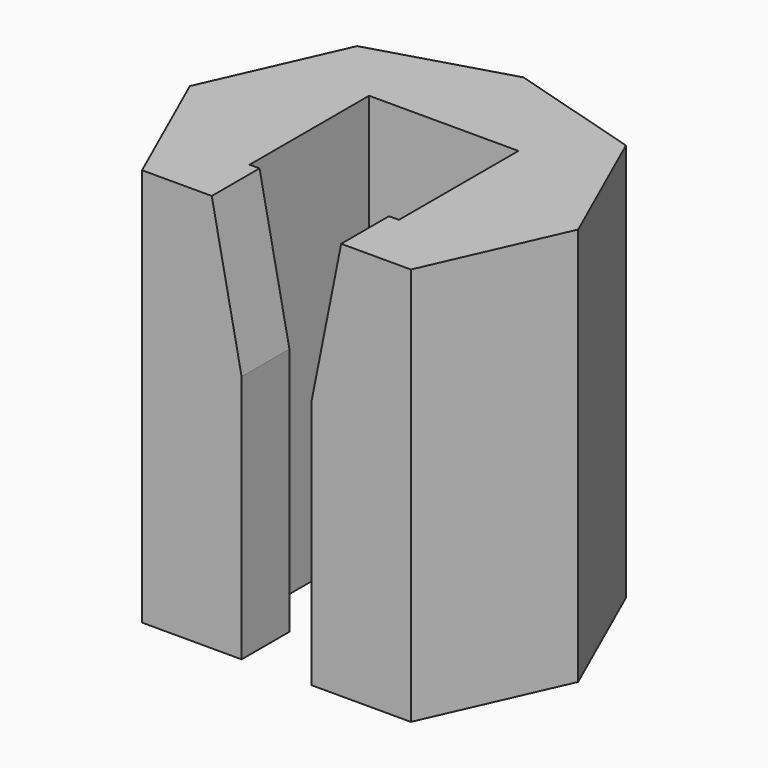
from build123d import *

# Parameters (mm, degrees)
F1_DEPTH = 40
F3_DEPTH = 6


with BuildPart() as f1:
    # F0 (on Top) → F1 (new body)
    with BuildSketch(Plane.XY):
        Polygon((-7.5, -7.5), (-7.5, 7.5), (7.5, 7.5), (7.5, -7.5), (3.5, -7.5), (3.5, -13.5), (13.5, -13.5), (19.5, 0), (13.5, 13.5), (0, 17.5), (-13.5, 13.5), (-19.5, 0), (-13.5, -13.5), (-3.5, -13.5), (-3.5, -7.5), align=None)
    extrude(amount=F1_DEPTH)

    # F2 (on face) → F3 (cut)
    with BuildSketch(Plane.XZ.offset(13.5)):
        Polygon((-3.5, 25), (-3.5, 40), (-6.5, 40), align=None)
        Polygon((3.5, 25), (6.5, 40), (3.5, 40), align=None)
    extrude(amount=-F3_DEPTH, mode=Mode.SUBTRACT)


solid = f1.part
